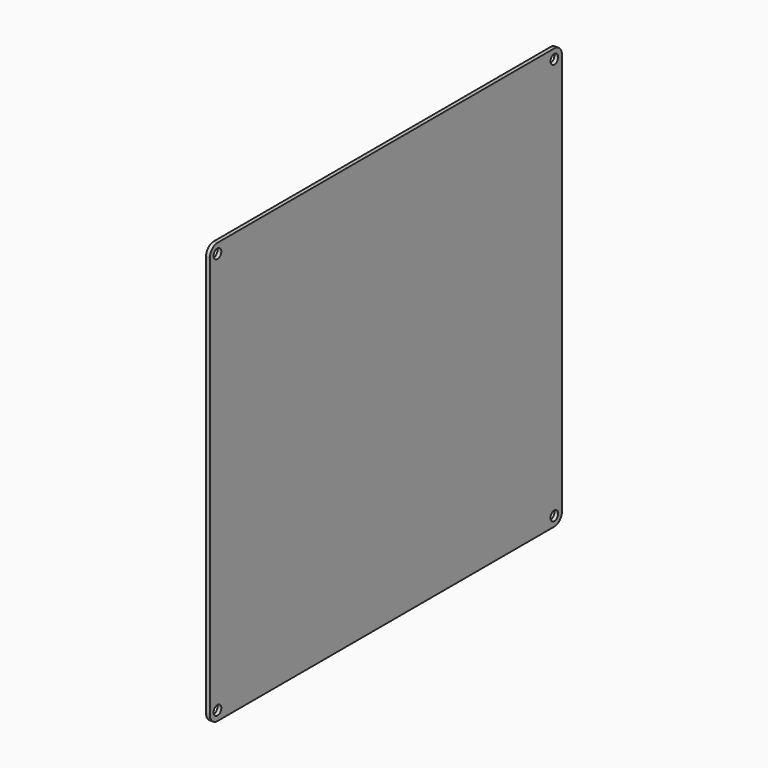
from build123d import *

# Parameters (mm, degrees)
SKETCH_W  = 230
SKETCH_H  = 220
SKETCH_R  = 2.5
PAD_DEPTH = 2
FILLET_R  = 5


with BuildPart() as part:
    # Sketch → Pad (new body)
    with BuildSketch(Plane.YZ):
        with Locations((10, -10)):
            Rectangle(SKETCH_W, SKETCH_H)
        with Locations((-100, 95)):
            Circle(SKETCH_R, mode=Mode.SUBTRACT)
        with Locations((120, 95)):
            Circle(SKETCH_R, mode=Mode.SUBTRACT)
        with Locations((-100, -115)):
            Circle(SKETCH_R, mode=Mode.SUBTRACT)
        with Locations((120, -115)):
            Circle(SKETCH_R, mode=Mode.SUBTRACT)
    extrude(amount=PAD_DEPTH)

    # Fillet
    fillet_edges = [part.edges().sort_by_distance(p)[0] for p in [
        (1, 125, -120),
        (1, -105, -120),
        (1, -105, 100),
        (1, 125, 100),
    ]]
    fillet(fillet_edges, radius=FILLET_R)


solid = part.part
